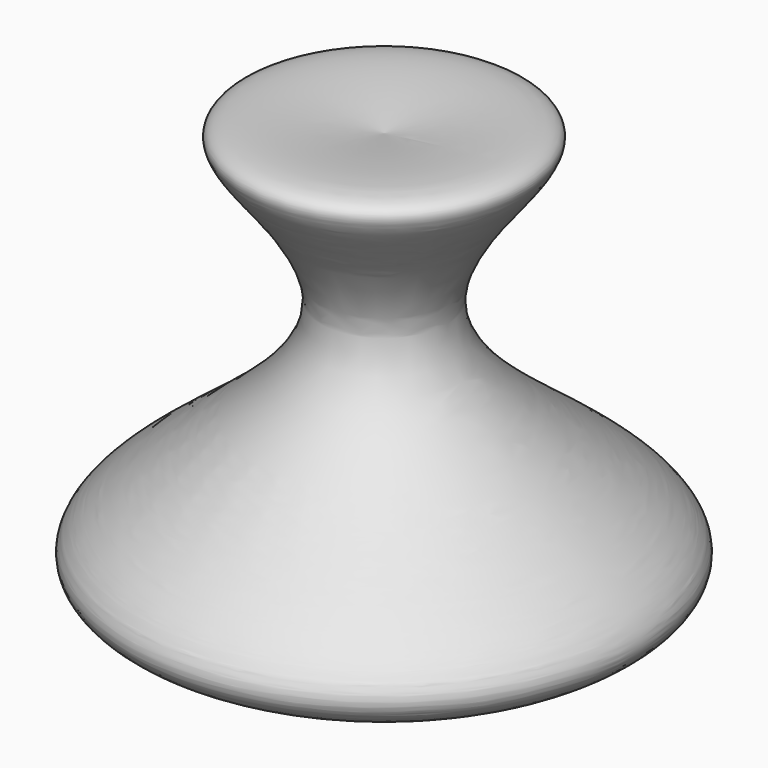
from build123d import *


with BuildPart() as f1:
    # F0 (on Front) → F1 (revolve)
    with BuildSketch(Plane.XZ):
        with BuildLine():
            add(Edge.make_bspline(
                [(0, 42.2239787877), (12.8948025444, 44.0708273469), (40.0555778959, 47.9609093122), (-9.9949449869, 9.6868622089), (73.9256435882, -28.9500873326), (24.4739975477, -35.9634433938), (0, -39.4344069064)],
                knots=[0, 0, 0, 0, 0.2043577252, 0.4304458519, 0.7181232994, 1, 1, 1, 1], degree=3))
            Line((0, 42.2239787877), (0, -39.4344069064))
        make_face()
    revolve(axis=Axis((0, 0, 1.3947859406), (0, 0, -1)))


solid = f1.part
